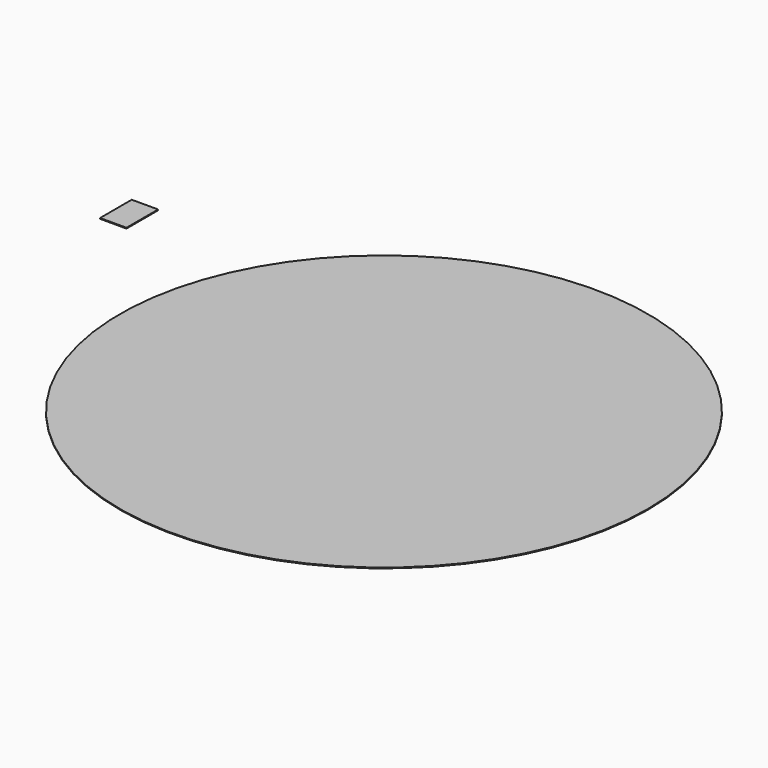
from build123d import *

# Parameters (mm, degrees)
F0_R     = 100
F0_W     = 10
F0_H     = 15
F1_DEPTH = 0.3


with BuildPart() as f1:
    # F0 (on Top) → F1 (new body)
    with BuildSketch(Plane.XY):
        Circle(F0_R)
        with Locations((-138.022373, 51.831916)):
            Rectangle(F0_W, F0_H)
    extrude(amount=F1_DEPTH)


solid = f1.part
